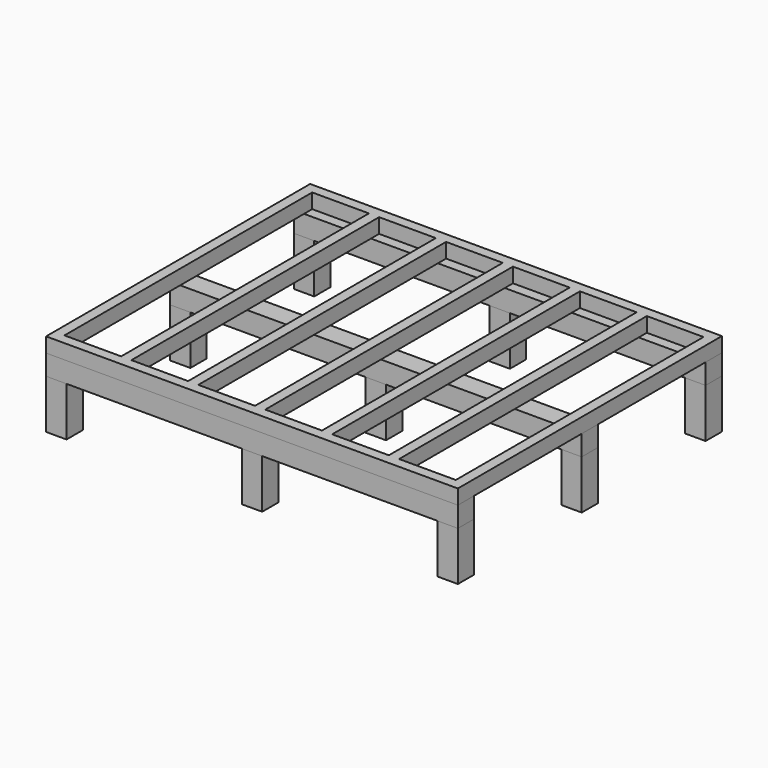
from build123d import *

# Parameters (mm, degrees)
F0_W     = 125
F0_H     = 125
F1_DEPTH = 300
F2_W     = 125
F2_H     = 125
F3_DEPTH = 2520
F4_W     = 62.5
F4_H     = 1895
F4_H_2   = 1832.5
F4_H_3   = 62.5
F5_DEPTH = 90


with BuildPart() as f1:
    # F0 (on Top) → F1 (new body)
    with BuildSketch(Plane.XY):
        with Locations((-1197.5, 947.5)):
            Rectangle(F0_W, F0_H)
        with Locations((-1197.5, 0)):
            Rectangle(F0_W, F0_H)
        with Locations((-1197.5, -947.5)):
            Rectangle(F0_W, F0_H)
        with Locations((0, 947.5)):
            Rectangle(F0_W, F0_H)
        Rectangle(F0_W, F0_H)
        with Locations((0, -947.5)):
            Rectangle(F0_W, F0_H)
        with Locations((1197.5, 947.5)):
            Rectangle(F0_W, F0_H)
        with Locations((1197.5, 0)):
            Rectangle(F0_W, F0_H)
        with Locations((1197.5, -947.5)):
            Rectangle(F0_W, F0_H)
    extrude(amount=F1_DEPTH)


with BuildPart() as f3:
    # F2 (on face) → F3 (new body, through all)
    with BuildSketch(Plane(origin=(-1260, 0, 0), x_dir=(0, -1, 0), z_dir=(-1, 0, 0))):
        with Locations((-947.5, 362.5)):
            Rectangle(F2_W, F2_H)
        with Locations((0, 362.5)):
            Rectangle(F2_W, F2_H)
        with Locations((947.5, 362.5)):
            Rectangle(F2_W, F2_H)
    extrude(amount=-F3_DEPTH)


with BuildPart() as f5:
    # F4 (on face) → F5 (new body)
    with BuildSketch(Plane.XY.offset(425)):
        Polygon((-810, 1010), (-1260, 1010), (-1260, 947.5), (-1197.5, 947.5), (-850.416667, 947.5), (-787.916667, 947.5), (-440.833333, 947.5), (-378.333333, 947.5), (-31.25, 947.5), (31.25, 947.5), (378.333333, 947.5), (440.833333, 947.5), (787.916667, 947.5), (850.416667, 947.5), (1197.5, 947.5), (1260, 947.5), (1260, 1010), align=None)
        with Locations((-1228.75, 0)):
            Rectangle(F4_W, F4_H)
        Polygon((-1197.5, -947.5), (-1260, -947.5), (-1260, -1010), (1260, -1010), (1260, -947.5), (1197.5, -947.5), (850.416667, -947.5), (787.916667, -947.5), (440.833333, -947.5), (378.333333, -947.5), (31.25, -947.5), (-31.25, -947.5), (-378.333333, -947.5), (-440.833333, -947.5), (-787.916667, -947.5), (-850.416667, -947.5), align=None)
        with Locations((1228.75, 0)):
            Rectangle(F4_W, F4_H)
        with Locations((-819.166667, -31.25)):
            Rectangle(F4_W, F4_H_2)
        with Locations((-409.583333, -31.25)):
            Rectangle(F4_W, F4_H_2)
        with Locations((0, -31.25)):
            Rectangle(F4_W, F4_H_2)
        with Locations((409.583333, -31.25)):
            Rectangle(F4_W, F4_H_2)
        with Locations((819.166667, -31.25)):
            Rectangle(F4_W, F4_H_2)
        with Locations((1228.75, -31.25)):
            Rectangle(F4_W, F4_H_2)
        with Locations((-819.166667, 916.25)):
            Rectangle(F4_W, F4_H_3)
        with Locations((-409.583333, 916.25)):
            Rectangle(F4_W, F4_H_3)
        with Locations((0, 916.25)):
            Rectangle(F4_W, F4_H_3)
        with Locations((409.583333, 916.25)):
            Rectangle(F4_W, F4_H_3)
        with Locations((819.166667, 916.25)):
            Rectangle(F4_W, F4_H_3)
        with Locations((1228.75, 916.25)):
            Rectangle(F4_W, F4_H_3)
    extrude(amount=F5_DEPTH)


solid = Compound([f1.part, f3.part, f5.part])
